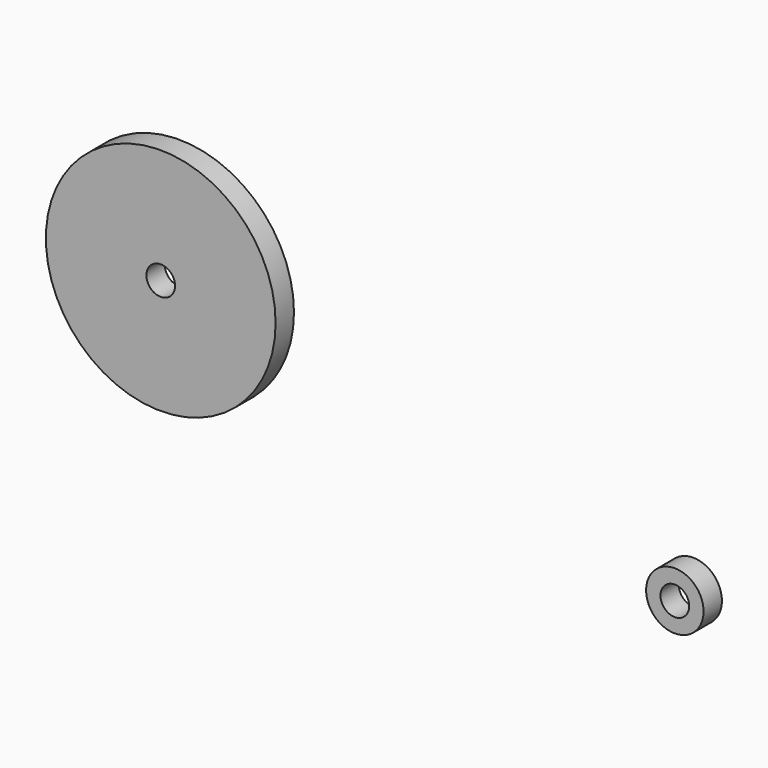
from build123d import *

# Parameters (mm, degrees)
F0_R     = 12.7
F0_R_2   = 1.5875
F0_R_3   = 3.175
F1_DEPTH = 2.54


with BuildPart() as f1:
    # F0 (on Front) → F1 (new body)
    with BuildSketch(Plane.XZ):
        with Locations((-37.809603, 35.858139)):
            Circle(F0_R)
        with Locations((-37.809603, 35.858139)):
            Circle(F0_R_2, mode=Mode.SUBTRACT)
        with Locations((19.026769, 23.173628)):
            Circle(F0_R_3)
        with Locations((19.026769, 23.173628)):
            Circle(F0_R_2, mode=Mode.SUBTRACT)
    extrude(amount=F1_DEPTH)


solid = f1.part
